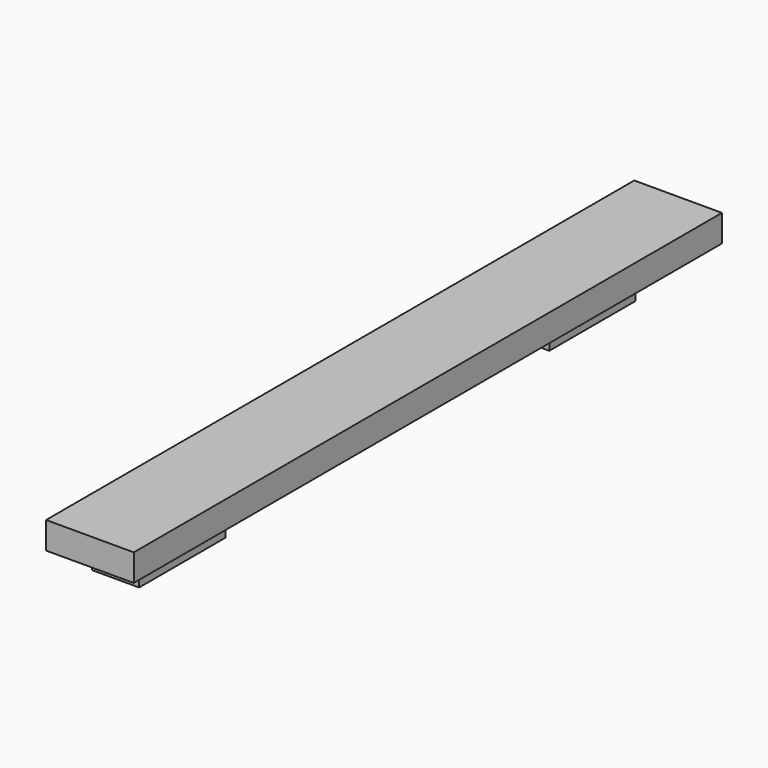
from build123d import *

# Parameters (mm, degrees)
F0_W     = 6.5
F0_H     = 54.5
F1_DEPTH = 2
F2_W     = 3.5
F2_H     = 8
F3_DEPTH = 3


with BuildPart() as f1:
    # F0 (on Top) → F1 (new body)
    with BuildSketch(Plane.XY):
        with Locations((3.25, 27.25)):
            Rectangle(F0_W, F0_H)
    extrude(amount=F1_DEPTH)

    # F2 (on face) → F3 (join)
    with BuildSketch(Plane(origin=(0, 0, 0), x_dir=(1, 0, 0), z_dir=(0, 0, -1))):
        with Locations((1.75, -46.25)):
            Rectangle(F2_W, F2_H)
        with Locations((1.75, -8.25)):
            Rectangle(F2_W, F2_H)
    extrude(amount=F3_DEPTH)


solid = f1.part
